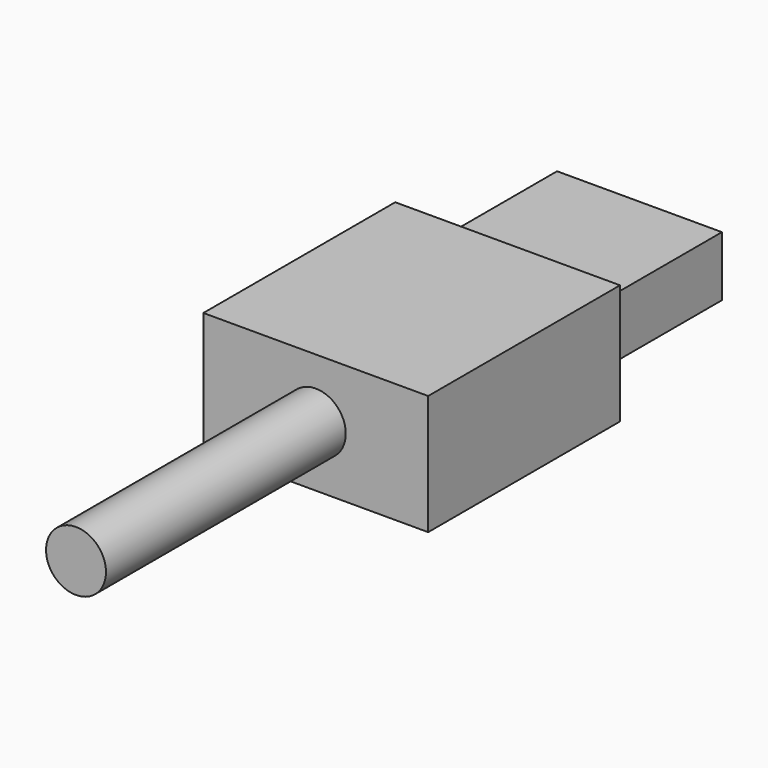
from build123d import *

# Parameters (mm, degrees)
F0_W     = 11
F0_H     = 4
F1_DEPTH = 11
F2_W     = 15
F2_H     = 8
F3_DEPTH = 16
F4_R     = 2
F5_DEPTH = 20
F6_W     = 10
F6_H     = 1.5
F7_DEPTH = 10


with BuildPart() as f1:
    # F0 (on Front) → F1 (new body)
    with BuildSketch(Plane.XZ):
        Rectangle(F0_W, F0_H)
    extrude(amount=F1_DEPTH)

    # F2 (on face) → F3 (join)
    with BuildSketch(Plane.XZ.offset(11)):
        Rectangle(F2_W, F2_H)
    extrude(amount=F3_DEPTH)

    # F4 (on face) → F5 (join)
    with BuildSketch(Plane.XZ.offset(27)):
        Circle(F4_R)
    extrude(amount=F5_DEPTH)

    # F6 (on face) → F7 (cut)
    with BuildSketch(Plane(origin=(0, 0, 0), x_dir=(-1, 0, 0), z_dir=(0, 1, 0))):
        with Locations((0, 0.75)):
            Rectangle(F6_W, F6_H)
    extrude(amount=-F7_DEPTH, mode=Mode.SUBTRACT)


with BuildPart() as f8_1:
    # F8: copy of F1
    add(f1.part)


solid = Compound([f1.part, f8_1.part])
